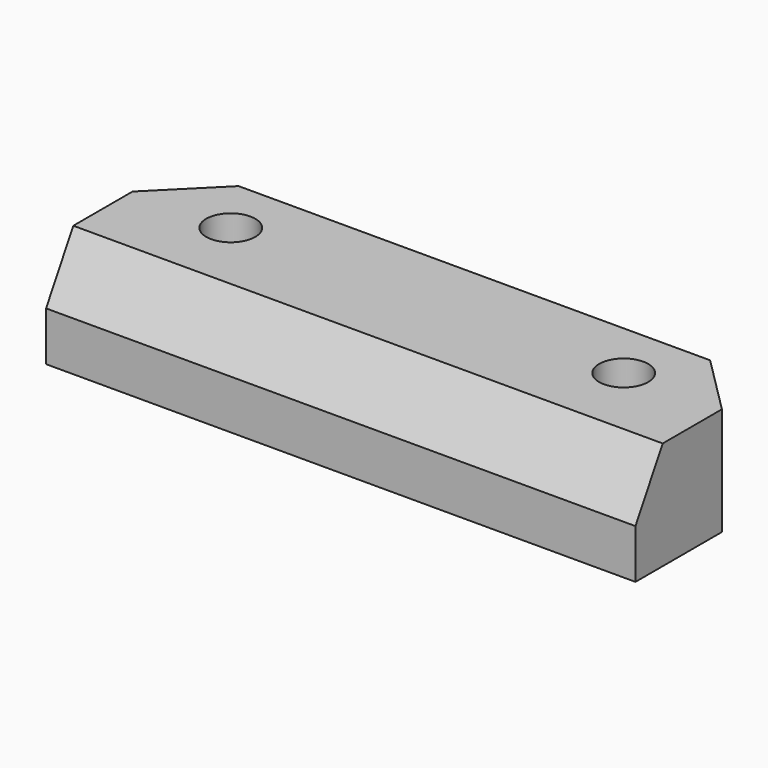
from build123d import *

# Parameters (mm, degrees)
F0_W     = 30
F0_H     = 5.5
F1_DEPTH = 8.5
F2_SIZE  = 3
F3_SIZE2 = 1.7320508076
F3_SIZE  = 3
F5_D     = 2.5


with BuildPart() as f1:
    # F0 (on Front) → F1 (new body)
    with BuildSketch(Plane.XZ):
        Rectangle(F0_W, F0_H)
    extrude(amount=F1_DEPTH)

    # F2
    f2_edges = [f1.edges().sort_by_distance(p)[0] for p in [
        (-15, 0, 0),
        (15, 0, 0),
    ]]
    chamfer(f2_edges, length=F2_SIZE)

    # F3
    f3_edges = [f1.edges().sort_by_distance(p)[0] for p in [
        (0, -8.5, 2.75),
    ]]
    f3_side = f1.faces().sort_by_distance((0, -8.5, 0))[0]
    chamfer(f3_edges, length=F3_SIZE, length2=F3_SIZE2, reference=f3_side)

    # F5 (through all)
    with Locations(Plane.XY.offset(2.75)):
        with Locations((-10, -3), (10, -3)):
            Hole(F5_D / 2)


solid = f1.part
